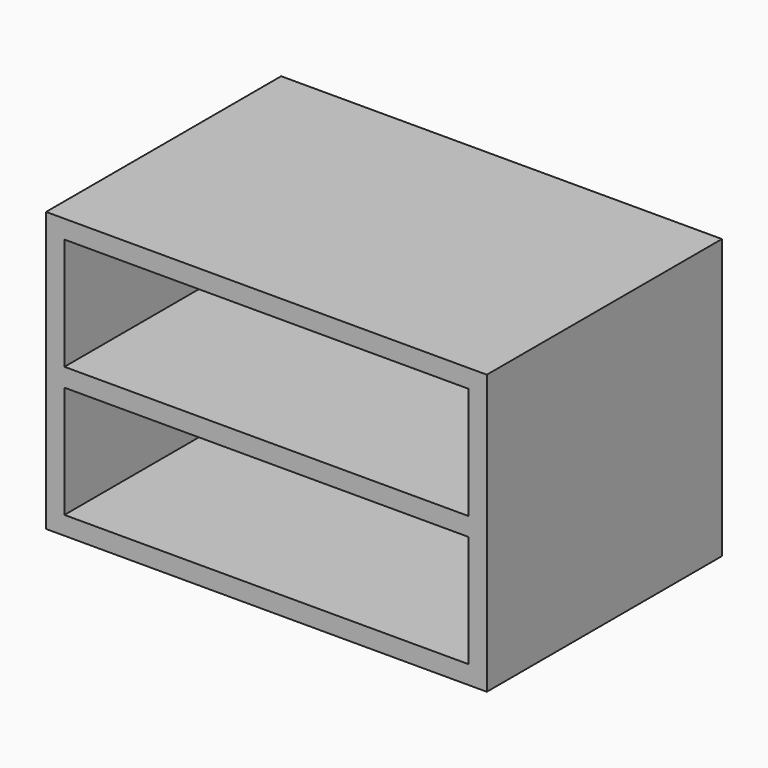
from build123d import *

# Parameters (mm, degrees)
F0_W     = 600
F0_H     = 380
F0_W_2   = 550
F0_H_2   = 152.5
F0_H_3   = 25
F1_DEPTH = 50
F2_DEPTH = 400
F3_DEPTH = 50.001
F4_DEPTH = 400


with BuildPart() as f1:
    # F0 (on Front) → F1 (new body)
    with BuildSketch(Plane.XZ):
        with Locations((300, 190)):
            Rectangle(F0_W, F0_H)
        Polygon((25, 202.5), (25, 355), (575, 355), (575, 202.5), (575, 177.5), (575, 25), (25, 25), (25, 177.5), align=None, mode=Mode.SUBTRACT)
        with Locations((300, 278.75)):
            Rectangle(F0_W_2, F0_H_2)
        with Locations((300, 190)):
            Rectangle(F0_W_2, F0_H_3)
        with Locations((300, 101.25)):
            Rectangle(F0_W_2, F0_H_2)
    extrude(amount=F1_DEPTH)

    # F0 (on Front) → F2 (join)
    with BuildSketch(Plane.XZ):
        with Locations((300, 190)):
            Rectangle(F0_W, F0_H)
        Polygon((25, 202.5), (25, 355), (575, 355), (575, 202.5), (575, 177.5), (575, 25), (25, 25), (25, 177.5), align=None, mode=Mode.SUBTRACT)
    extrude(amount=F2_DEPTH)

    # F3 (cut, through all): a face of the model
    f3_faces = [f1.faces().sort_by_distance(p)[0] for p in [
        (300, -50, 190),
    ]]
    extrude(f3_faces, amount=-F3_DEPTH, mode=Mode.SUBTRACT)

    # F0 (on Front) → F4 (join, through all)
    with BuildSketch(Plane.XZ):
        with Locations((300, 190)):
            Rectangle(F0_W_2, F0_H_3)
    extrude(amount=F4_DEPTH)


solid = f1.part
